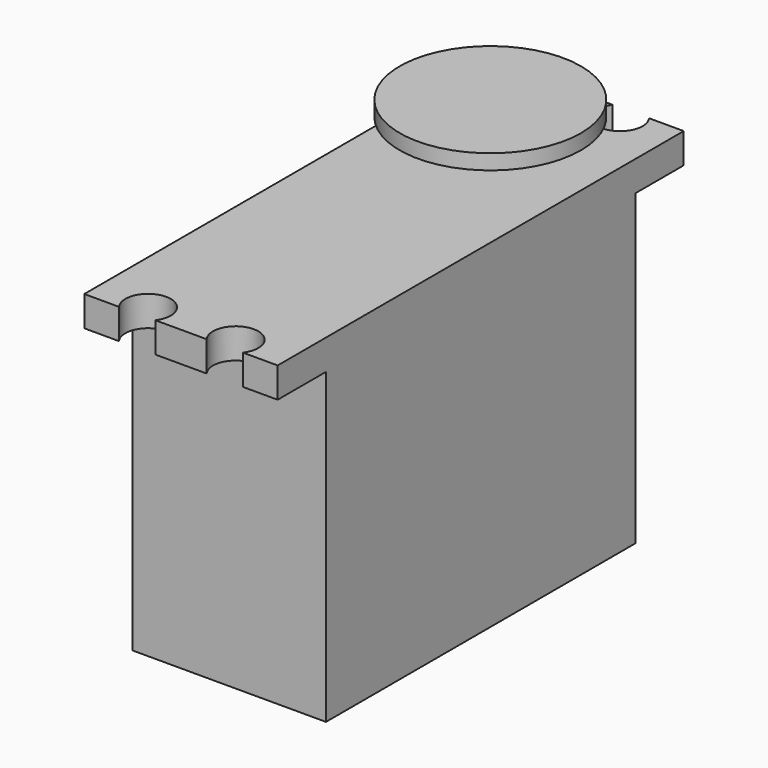
from build123d import *

# Parameters (mm, degrees)
F0_W     = 20.32
F0_H     = 40.64
F1_DEPTH = 35.56
F3_DEPTH = 3.175
F4_R     = 3.175
F5_DEPTH = 3.175
F6_R     = 9.525
F7_DEPTH = 1.5875


with BuildPart() as f1:
    # F0 (on Top) → F1 (new body)
    with BuildSketch(Plane.XY):
        Rectangle(F0_W, F0_H)
    extrude(amount=F1_DEPTH)

    # F2 (on face) → F3 (join)
    with BuildSketch(Plane.XY.offset(35.56)):
        with BuildLine():
            Line((-10.16, 26.67), (-10.16, 20.32))
            Line((-10.16, 20.32), (10.16, 20.32))
            Line((10.16, 20.32), (10.16, 26.67))
            Line((10.16, 26.67), (6.50875, 26.67))
            ThreePointArc((6.50875, 26.67), (6.862802, 25.994267), (6.985, 25.24125))
            ThreePointArc((6.985, 25.24125), (3.850733, 22.982198), (2.69875, 26.67))
            Line((2.69875, 26.67), (-2.69875, 26.67))
            ThreePointArc((-2.69875, 26.67), (-2.344698, 25.994267), (-2.2225, 25.24125))
            ThreePointArc((-2.2225, 25.24125), (-5.356767, 22.982198), (-6.50875, 26.67))
            Line((-6.50875, 26.67), (-10.16, 26.67))
        make_face()
        with BuildLine():
            Line((10.16, -20.32), (-10.16, -20.32))
            Line((-10.16, -20.32), (-10.16, -26.67))
            Line((-10.16, -26.67), (-6.50875, -26.67))
            ThreePointArc((-6.50875, -26.67), (-5.356767, -22.982198), (-2.2225, -25.24125))
            ThreePointArc((-2.2225, -25.24125), (-2.344698, -25.994267), (-2.69875, -26.67))
            Line((-2.69875, -26.67), (2.69875, -26.67))
            ThreePointArc((2.69875, -26.67), (3.850733, -22.982198), (6.985, -25.24125))
            ThreePointArc((6.985, -25.24125), (6.862802, -25.994267), (6.50875, -26.67))
            Line((6.50875, -26.67), (10.16, -26.67))
            Line((10.16, -26.67), (10.16, -20.32))
        make_face()
    extrude(amount=-F3_DEPTH)

    # F4 (on face) → F5 (join)
    with BuildSketch(Plane.XY.offset(35.56)):
        with Locations((0, 13.97)):
            Circle(F4_R)
    extrude(amount=F5_DEPTH)

    # F6 (on face) → F7 (join)
    with BuildSketch(Plane.XY.offset(38.735)):
        with Locations((0, 13.97)):
            Circle(F6_R)
    extrude(amount=F7_DEPTH)


solid = f1.part
